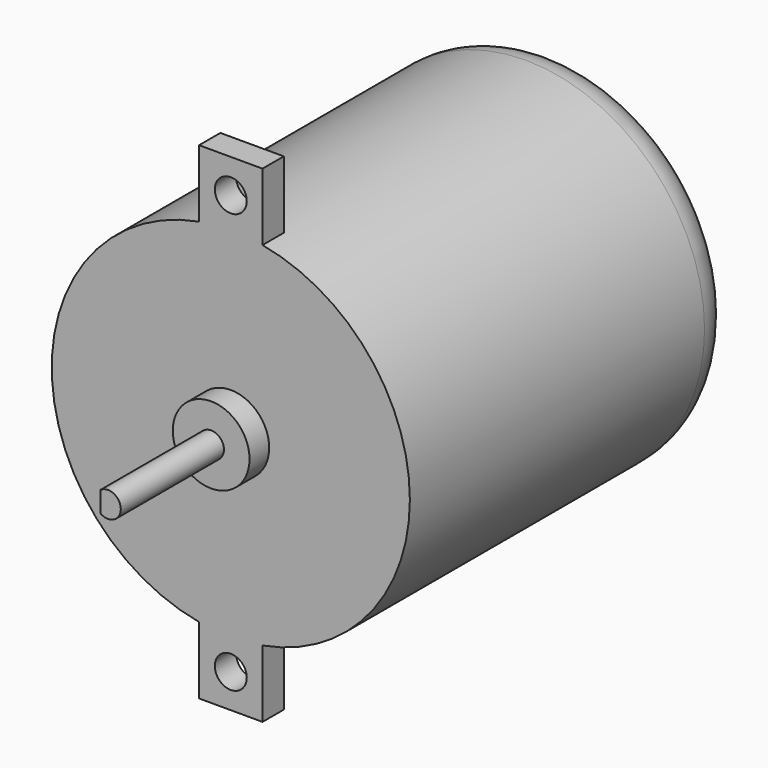
from build123d import *

# Parameters (mm, degrees)
F0_R      = 22.225
F1_DEPTH  = 50.8
F2_R      = 4.7625
F3_DEPTH  = 3.048
F4_R      = 1.5875
F5_DEPTH  = 16.002
F7_DEPTH  = 10.16
F8_R      = 5.08
F9_W      = 7.874
F9_H      = 60.452
F10_DEPTH = 3.302
F11_R     = 1.9812
F12_DEPTH = 50.801


with BuildPart() as f1:
    # F0 (on Front) → F1 (new body)
    with BuildSketch(Plane.XZ):
        Circle(F0_R)
    extrude(amount=F1_DEPTH)

    # F2 (on face) → F3 (join)
    with BuildSketch(Plane.XZ.offset(50.8)):
        Circle(F2_R)
    extrude(amount=F3_DEPTH)

    # F4 (on face) → F5 (join)
    with BuildSketch(Plane.XZ.offset(53.848)):
        Circle(F4_R)
    extrude(amount=F5_DEPTH)

    # F6 (on face) → F7 (cut)
    with BuildSketch(Plane.XZ.offset(69.85)):
        with BuildLine():
            Line((-0.9525, -1.27), (-0.9525, 1.27))
            ThreePointArc((-0.9525, 1.27), (-1.5875, 0), (-0.9525, -1.27))
        make_face()
    extrude(amount=-F7_DEPTH, mode=Mode.SUBTRACT)

    # F8
    f8_edges = [f1.edges().sort_by_distance(p)[0] for p in [
        (-22.225, 0, 0),
    ]]
    fillet(f8_edges, radius=F8_R)

    # F9 (on face) → F10 (join)
    with BuildSketch(Plane.XZ.offset(50.8)):
        Rectangle(F9_W, F9_H)
        Rectangle(F9_W, F9_H)
    extrude(amount=-F10_DEPTH)

    # F11 (on face) → F12 (cut, through all)
    with BuildSketch(Plane.XZ.offset(50.8)):
        with Locations((0, 26.035)):
            Circle(F11_R)
        with Locations((0, -26.035)):
            Circle(F11_R)
    extrude(amount=-F12_DEPTH, mode=Mode.SUBTRACT)


solid = f1.part
